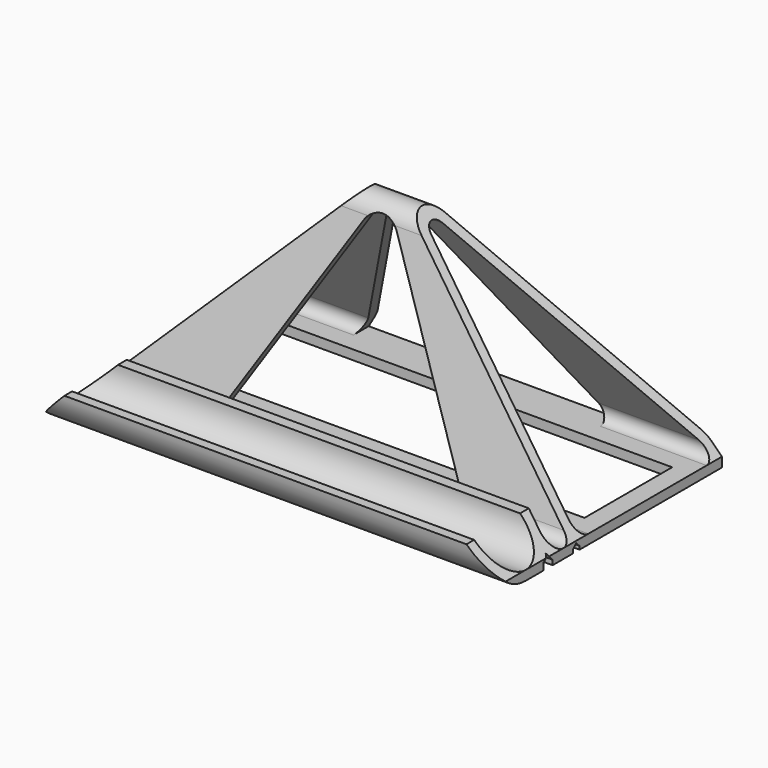
from build123d import *

# Parameters (mm, degrees)
F1_DEPTH      = 76.2
F2_W          = 139.7
F2_H          = 36.3417792003
F3_DEPTH      = 25.4
F7_DEPTH      = 27.275979542
F7_DEPTH_BACK = 66.7271380179
F9_DEPTH      = 66.7271380179


with BuildPart() as f1:
    # F0 (on Right) → F1 (new body, symmetric)
    with BuildSketch(Plane.YZ):
        with BuildLine():
            ThreePointArc((-0.2200527473, 12.7), (-9.7450527473, 3.175), (-19.2700527473, 12.7))
            Line((-19.2700527473, 12.7), (-22.4450527473, 12.7))
            ThreePointArc((-22.4450527473, 12.7), (-18.7253088684, 3.7197438789), (-9.7450527473, 0))
            Line((-9.7450527473, 0), (-2.4182328489, 0))
            Line((-2.4182328489, 0), (-2.4182328489, 2.3265863779))
            ThreePointArc((-2.4182328489, 2.3265863779), (-1.4157111092, 3.1129218281), (-0.4970236472, 3.9957505917))
            ThreePointArc((-0.4970236472, 3.9957505917), (0.3027257677, 2.6962087261), (1.3655856019, 1.6013401678))
            Line((1.3655856019, 1.6013401678), (1.3655856019, 0))
            Line((1.3655856019, 0), (9.7478376701, 0))
            Line((9.7478376701, 0), (9.7478376701, 1.2116913596))
            ThreePointArc((9.7478376701, 1.2116913596), (10.4868542157, 1.7913884), (11.1414158123, 2.4649930537))
            ThreePointArc((11.1414158123, 2.4649930537), (11.784015325, 1.75263856), (12.5265968964, 1.145221349))
            Line((12.5265968964, 1.145221349), (12.5265968964, 0))
            Line((12.5265968964, 0), (16.1642856123, 0))
            Line((16.1642856123, 0), (71.5560648125, 0))
            Line((71.5560648125, 0), (71.5560648125, 6.35))
            ThreePointArc((71.5560648125, 6.35), (71.3396938095, 7.9935009364), (70.7053261266, 9.525))
            Line((70.7053261266, 9.525), (37.2091680094, 67.5420477173))
            ThreePointArc((37.2091680094, 67.5420477173), (30.8810653748, 70.662722587), (25.5762776984, 66.0105486537))
            Line((25.5762776984, 66.0105486537), (9.4962047547, 5.9988994382))
            ThreePointArc((9.4962047547, 5.9988994382), (4.8299267947, 3.3048226018), (2.1358499583, 7.9711005618))
            Line((2.1358499583, 7.9711005618), (3.4029547439, 12.7))
            Line((3.4029547439, 12.7), (-0.2200527473, 12.7))
        make_face()
        with BuildLine():
            ThreePointArc((67.9556954695, 7.9375), (67.9556954695, 4.7625), (65.2060648125, 3.175))
            Line((65.2060648125, 3.175), (16.1642856123, 3.175))
            ThreePointArc((16.1642856123, 3.175), (13.6453887568, 4.4171824629), (13.0974711138, 7.1717504682))
            Line((13.0974711138, 7.1717504682), (28.6430921969, 65.1887981855))
            ThreePointArc((28.6430921969, 65.1887981855), (31.2954860351, 67.5148851522), (34.4595373524, 65.9545477173))
            Line((34.4595373524, 65.9545477173), (67.9556954695, 7.9375))
        make_face(mode=Mode.SUBTRACT)
    extrude(amount=F1_DEPTH, both=True)

    # F2 (on face) → F3 (cut)
    with BuildSketch(Plane.XY.offset(3.175)):
        with Locations((0, 40.6851752124)):
            Rectangle(F2_W, F2_H)
    extrude(amount=-F3_DEPTH, mode=Mode.SUBTRACT)

    # F6 (on plane+point) → F7 (cut, two sides)
    with BuildSketch(Plane.XZ.offset(-4.8299267947)) as f7_sk:
        Polygon((76.2, 73.3377320159), (6.0372679841, 73.3377320159), (76.2, 3.175), align=None)
        Polygon((-76.2, 3.175), (-6.0372679841, 73.3377320159), (-76.2, 73.3377320159), align=None)
    extrude(amount=F7_DEPTH, mode=Mode.SUBTRACT)
    extrude(f7_sk.sketch, amount=-F7_DEPTH_BACK, mode=Mode.SUBTRACT)

    # F8 (on plane+point) → F9 (cut, through all)
    with BuildSketch(Plane.XZ.offset(-4.8299267947)):
        with BuildLine():
            Line((-5.499261314, 64.5894877579), (-40.9569323532, 3.175))
            Line((-40.9569323532, 3.175), (40.9569323532, 3.175))
            Line((40.9569323532, 3.175), (5.499261314, 64.5894877579))
            ThreePointArc((5.499261314, 64.5894877579), (0, 67.7644877579), (-5.499261314, 64.5894877579))
        make_face()
    extrude(amount=-F9_DEPTH, mode=Mode.SUBTRACT)


solid = f1.part
